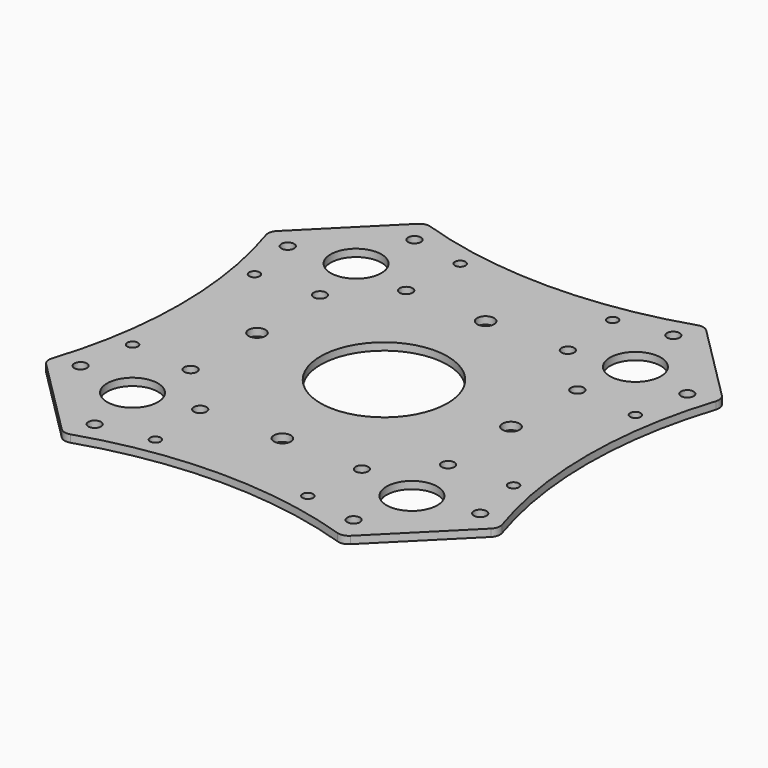
from build123d import *

# Parameters (mm, degrees)
SKETCH005_R      = 6
EXTRUDE005_DEPTH = 1.75
SKETCH004_R      = 1.25
EXTRUDE004_DEPTH = 1.75
SKETCH003_R      = 2
SKETCH003_R_2    = 15
EXTRUDE003_DEPTH = 1.75
SKETCH002_R      = 1.499044
EXTRUDE002_DEPTH = 1.75
SKETCH001_R      = 101.870707
EXTRUDE001_DEPTH = 1.75
EXTRUDE_DEPTH    = 1.75
FILLET001_R      = 2.5


with BuildPart() as obj1:
    # Sketch005 (on Cut) → Extrude005 (new body)
    with BuildSketch(Plane.XY.offset(-1.75)):
        with Locations((-33, -33)):
            Circle(SKETCH005_R)
        with Locations((33, -33)):
            Circle(SKETCH005_R)
        with Locations((33, 33)):
            Circle(SKETCH005_R)
        with Locations((-33, 33)):
            Circle(SKETCH005_R)
    extrude(amount=EXTRUDE005_DEPTH)


with BuildPart() as obj1_1:
    # Extrude005 placement: moved
    add(obj1.part.moved(Location((0, 0, 39.25))))


with BuildPart() as obj2:
    # Sketch004 (on Face2 of Cut002) → Extrude004 (new body)
    with BuildSketch(Plane(origin=(0, 0, 39.25), x_dir=(1, 0, 0), z_dir=(0, 0, -1))):
        with Locations((-18, -45)):
            Circle(SKETCH004_R)
        with Locations((18, -45)):
            Circle(SKETCH004_R)
        with Locations((18, 45)):
            Circle(SKETCH004_R)
        with Locations((-18, 45)):
            Circle(SKETCH004_R)
        with Locations((45, -18)):
            Circle(SKETCH004_R)
        with Locations((45, 18)):
            Circle(SKETCH004_R)
        with Locations((-45, -18)):
            Circle(SKETCH004_R)
        with Locations((-45, 18)):
            Circle(SKETCH004_R)
    extrude(amount=-EXTRUDE004_DEPTH)


with BuildPart() as pcb_mount_holes:
    # Sketch003 (on Face4 of Cut001) → Extrude003 (new body)
    with BuildSketch(Plane.XY.offset(41)):
        with Locations((0, -30)):
            Circle(SKETCH003_R)
        with Locations((-30, 0)):
            Circle(SKETCH003_R)
        with Locations((0, 30)):
            Circle(SKETCH003_R)
        with Locations((30, 0)):
            Circle(SKETCH003_R)
        Circle(SKETCH003_R_2)
    extrude(amount=EXTRUDE003_DEPTH)


with BuildPart() as pcb_mount_holes_1:
    # Extrude003 placement: moved
    add(pcb_mount_holes.part.moved(Location((0, 0, -1.75))))


with BuildPart() as new_plate_mount_holes:
    # Sketch002 (on Face4 of Cut) → Extrude002 (new body)
    with BuildSketch(Plane.XY.offset(41)):
        with Locations((-47.205132, 30.588341)):
            Circle(SKETCH002_R)
        with Locations((-30.567202, 47.199055)):
            Circle(SKETCH002_R)
        with Locations((-30.397604, 19.093531)):
            Circle(SKETCH002_R)
        with Locations((-19.088974, 30.411751)):
            Circle(SKETCH002_R)
        with Locations((19.10001, 30.403801)):
            Circle(SKETCH002_R)
        with Locations((30.583944, 47.210339)):
            Circle(SKETCH002_R)
        with Locations((30.394878, 19.093672)):
            Circle(SKETCH002_R)
        with Locations((47.19109, 30.57703)):
            Circle(SKETCH002_R)
        with Locations((30.412411, -19.089888)):
            Circle(SKETCH002_R)
        with Locations((47.194775, -30.584883)):
            Circle(SKETCH002_R)
        with Locations((19.091776, -30.4009)):
            Circle(SKETCH002_R)
        with Locations((30.581888, -47.195107)):
            Circle(SKETCH002_R)
        with Locations((-30.587105, -47.201801)):
            Circle(SKETCH002_R)
        with Locations((-19.094023, -30.403849)):
            Circle(SKETCH002_R)
        with Locations((-30.409216, -19.085772)):
            Circle(SKETCH002_R)
        with Locations((-47.198414, -30.583656)):
            Circle(SKETCH002_R)
    extrude(amount=EXTRUDE002_DEPTH)


with BuildPart() as new_plate_mount_holes_1:
    # Extrude002 placement: moved
    add(new_plate_mount_holes.part.moved(Location((0, 0, -1.75))))


with BuildPart() as new_plate_base_neg1:
    # Sketch001 (on Face9 of Extrude) → Extrude001 (new body)
    with BuildSketch(Plane(origin=(0, 0, 39.25), x_dir=(1, 0, 0), z_dir=(0, 0, -1))):
        with Locations((-0.000254, 150.000229)):
            Circle(SKETCH001_R)
        with Locations((150.009079, 0.007901)):
            Circle(SKETCH001_R)
        with Locations((-0.021678, -150.013428)):
            Circle(SKETCH001_R)
        with Locations((-150.015869, -0.046967)):
            Circle(SKETCH001_R)
    extrude(amount=-EXTRUDE001_DEPTH)


with BuildPart() as top_plate_new:
    # Sketch (on Face200 of F450107) → Extrude (new body)
    with BuildSketch(Plane.XY.offset(39.25)):
        Polygon((61.25, -25.370581), (61.25, 25.370581), (25.370581, 61.25), (-25.370581, 61.25), (-61.25, 25.370581), (-61.25, -25.370581), (-25.370581, -61.25), (25.370581, -61.25), align=None)
    extrude(amount=EXTRUDE_DEPTH)

    # Cut: cut new_plate_base_neg1
    add(new_plate_base_neg1.part, mode=Mode.SUBTRACT)

    # Cut001: cut new_plate_mount_holes
    add(new_plate_mount_holes_1.part, mode=Mode.SUBTRACT)

    # Cut002: cut pcb_mount_holes
    add(pcb_mount_holes_1.part, mode=Mode.SUBTRACT)

    # Cut003: cut obj2
    add(obj2.part, mode=Mode.SUBTRACT)


with BuildPart() as top_plate_new_1:
    # Cut003 placement: moved
    add(top_plate_new.part.moved(Location((0, 0, -1.75))))

    # Cut004: cut obj1
    add(obj1_1.part, mode=Mode.SUBTRACT)

    # Fillet001
    fillet001_edges = [top_plate_new_1.edges().sort_by_distance(p)[0] for p in [
        (53.626688, -32.993893, 38.375),
        (32.998406, -53.622175, 38.375),
        (53.630718, 32.989863, 38.375),
        (-32.998536, -53.622045, 38.375),
        (-53.645742, -32.974838, 38.375),
        (32.983109, 53.637472, 38.375),
        (-32.994165, 53.626416, 38.375),
        (-53.621791, 32.99879, 38.375),
    ]]
    fillet(fillet001_edges, radius=FILLET001_R)


solid = top_plate_new_1.part
